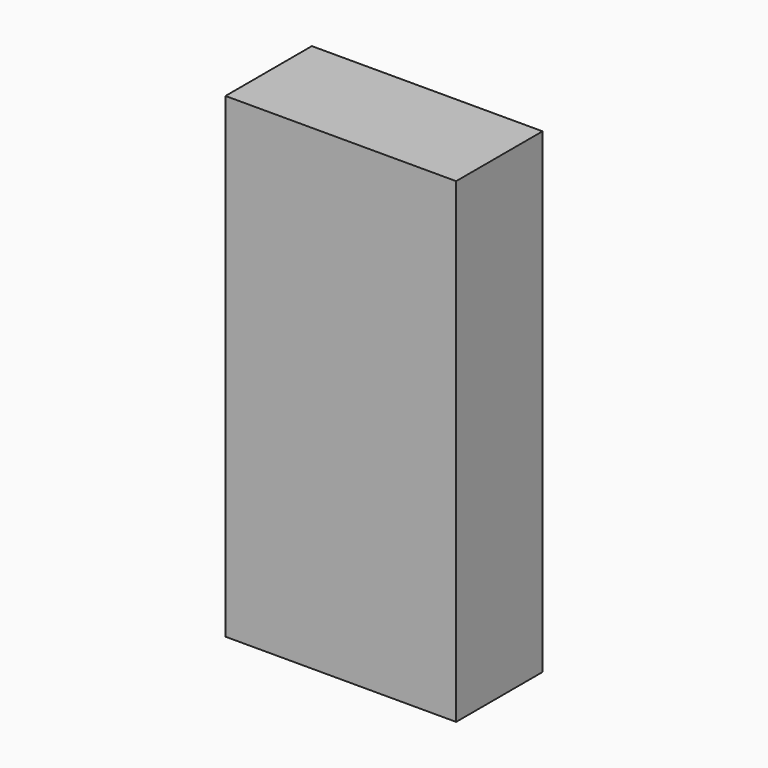
from build123d import *

# Parameters (mm, degrees)
F0_W     = 47
F0_H     = 97
F1_DEPTH = 22
F2_W     = 12
F2_H     = 5
F3_DEPTH = 14


with BuildPart() as f1:
    # F0 (on Front) → F1 (new body)
    with BuildSketch(Plane.XZ):
        with Locations((-17.705882, 5.770047)):
            Rectangle(F0_W, F0_H)
    extrude(amount=F1_DEPTH)

    # F2 (on face) → F3 (cut)
    with BuildSketch(Plane(origin=(0, 0, -42.729953), x_dir=(1, 0, 0), z_dir=(0, 0, -1))):
        with Locations((-27.205882, 11)):
            Rectangle(F2_W, F2_H)
        with Locations((-8.205882, 11)):
            Rectangle(F2_W, F2_H)
    extrude(amount=-F3_DEPTH, mode=Mode.SUBTRACT)


solid = f1.part
